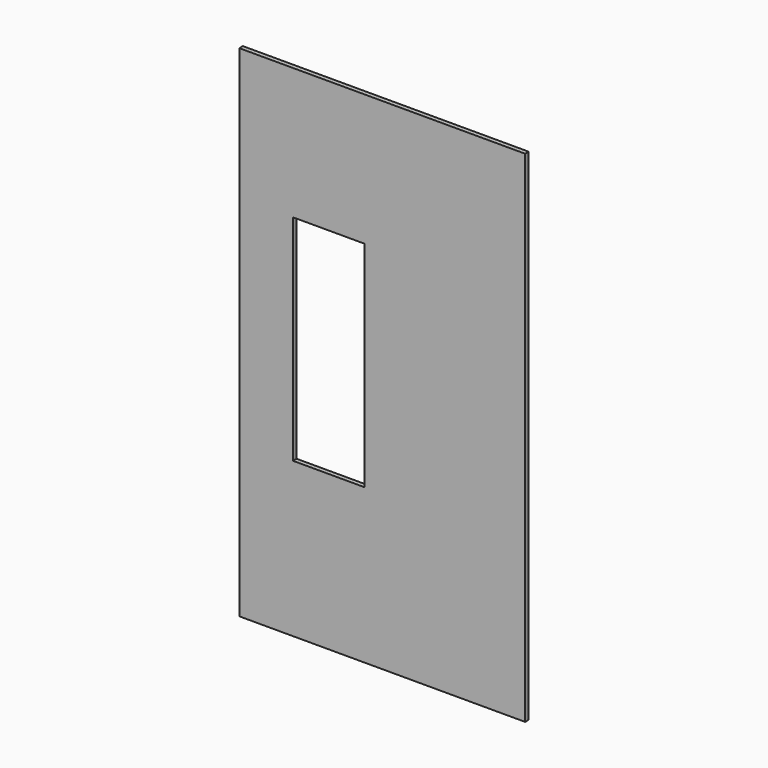
from build123d import *

# Parameters (mm, degrees)
F0_W     = 406.4
F0_H     = 711.2
F1_DEPTH = 3.175
F2_W     = 101.6
F2_H     = 304.8
F3_DEPTH = 6.351


with BuildPart() as f1:
    # F0 (on Front) → F1 (new body, symmetric)
    with BuildSketch(Plane.XZ):
        with Locations((10.775733, 0)):
            Rectangle(F0_W, F0_H)
    extrude(amount=F1_DEPTH, both=True)

    # F2 (on face) → F3 (cut, through all)
    with BuildSketch(Plane.XZ.offset(3.175)):
        with Locations((-65.424267, 16.310206)):
            Rectangle(F2_W, F2_H)
    extrude(amount=-F3_DEPTH, mode=Mode.SUBTRACT)


solid = f1.part
